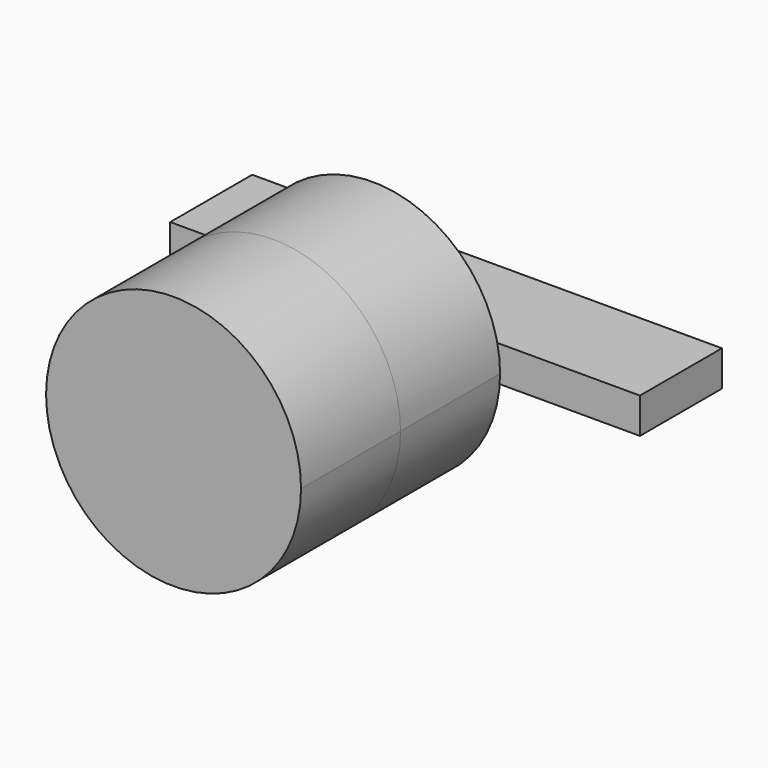
from build123d import *

# Parameters (mm, degrees)
F1_DEPTH = 35
F2_W     = 132.1505941451
F2_H     = 28.8282912225
F3_DEPTH = 5


with BuildPart() as f1:
    # F0 (on Front) → F1 (new body, symmetric)
    with BuildSketch(Plane.XZ):
        with BuildLine():
            ThreePointArc((21.5461921372, 28.6705084145), (0, 35.8641387511), (-21.5461921372, 28.6705084145))
            Line((-21.5461921372, 28.6705084145), (21.5461921372, 28.6705084145))
        make_face()
        with BuildLine():
            Line((21.5461921372, 28.6705084145), (-21.5461921372, 28.6705084145))
            ThreePointArc((-21.5461921372, 28.6705084145), (-35.8641387511, 0), (-21.5461921372, -28.6705084145))
            Line((-21.5461921372, -28.6705084145), (21.5461921372, -28.6705084145))
            ThreePointArc((21.5461921372, -28.6705084145), (32.0856048153, -16.023433215), (35.8641387511, 0))
            ThreePointArc((35.8641387511, 0), (32.0856048153, 16.023433215), (21.5461921372, 28.6705084145))
        make_face()
        with BuildLine():
            Line((21.5461921372, -28.6705084145), (-21.5461921372, -28.6705084145))
            ThreePointArc((-21.5461921372, -28.6705084145), (0, -35.8641387511), (21.5461921372, -28.6705084145))
        make_face()
    extrude(amount=F1_DEPTH, both=True)


with BuildPart() as f3:
    # F2 (on Top) → F3 (new body, symmetric)
    with BuildSketch(Plane.XY):
        with Locations((6.296729669, 52.9679069296)):
            Rectangle(F2_W, F2_H)
    extrude(amount=F3_DEPTH, both=True)


solid = Compound([f1.part, f3.part])
